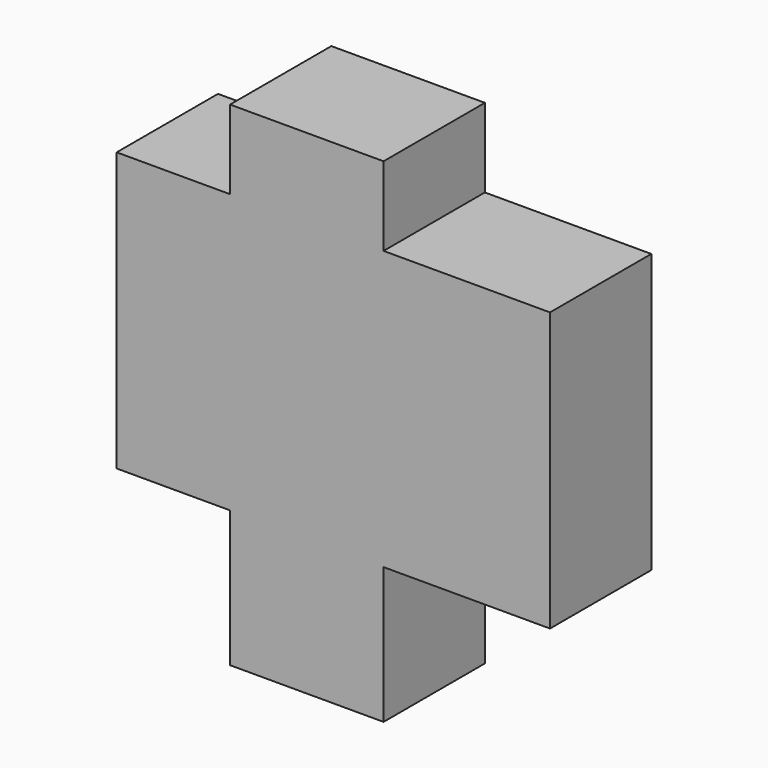
from build123d import *

# Parameters (mm, degrees)
F0_W     = 86.91734
F0_H     = 55.834315
F1_DEPTH = 25.4
F2_DEPTH = 25.4
F3_W     = 30.795218
F3_H     = 99.005182
F4_DEPTH = 25.4


with BuildPart() as f1:
    # F0 (on Front) → F1 (new body)
    with BuildSketch(Plane.XZ):
        with Locations((5.0366, -8.202463)):
            Rectangle(F0_W, F0_H)
    extrude(amount=F1_DEPTH)

    # F0 (on Front) → F2 (join)
    with BuildSketch(Plane.XZ):
        with Locations((5.0366, -8.202463)):
            Rectangle(F0_W, F0_H)
    extrude(amount=F2_DEPTH)

    # F3 (on Front) → F4 (join)
    with BuildSketch(Plane.XZ):
        with Locations((-0.287806, -13.958579)):
            Rectangle(F3_W, F3_H)
    extrude(amount=F4_DEPTH)


solid = f1.part
